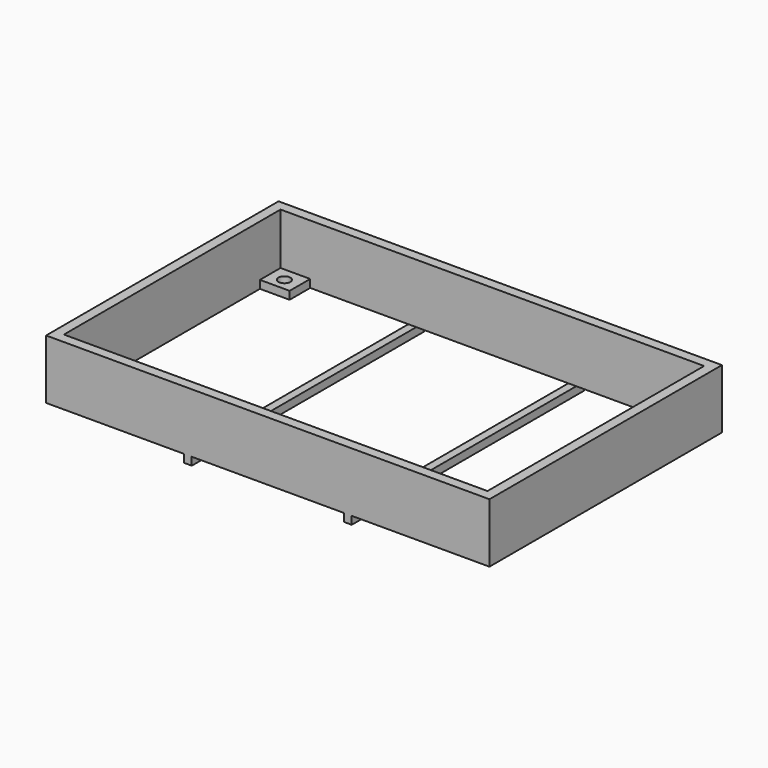
from build123d import *

# Parameters (mm, degrees)
SKETCH_W      = 112
SKETCH_H      = 73.4
SKETCH_W_2    = 107
SKETCH_H_2    = 68.4
PAD_DEPTH     = 15
SKETCH001_W   = 6.5
SKETCH001_H   = 6.5
SKETCH001_W_2 = 7.5
PAD001_DEPTH  = 2
SKETCH002_R   = 1.5
POCKET_DEPTH  = 2
SKETCH003_W   = 2
SKETCH003_H   = 73.4
PAD002_DEPTH  = 2


with BuildPart() as part:
    # Sketch → Pad (new body)
    with BuildSketch(Plane.XY):
        Rectangle(SKETCH_W, SKETCH_H)
        Rectangle(SKETCH_W_2, SKETCH_H_2, mode=Mode.SUBTRACT)
    extrude(amount=PAD_DEPTH)

    # Sketch001 (on Face9 of Pad) → Pad001 (join)
    with BuildSketch(Plane(origin=(0, 0, 0), x_dir=(1, 0, 0), z_dir=(0, 0, -1))):
        with Locations((-50.25, 30.95)):
            Rectangle(SKETCH001_W, SKETCH001_H)
        with Locations((-49.75, -30.95)):
            Rectangle(SKETCH001_W_2, SKETCH001_H)
        with Locations((50.25, 30.95)):
            Rectangle(SKETCH001_W, SKETCH001_H)
        with Locations((50.25, -30.95)):
            Rectangle(SKETCH001_W, SKETCH001_H)
    extrude(amount=-PAD001_DEPTH)

    # Sketch002 (on Face22 of Pad001) → Pocket (cut)
    with BuildSketch(Plane(origin=(0, 0, 0), x_dir=(1, 0, 0), z_dir=(0, 0, -1))):
        with Locations((-50.25, 30.75)):
            Circle(SKETCH002_R)
        with Locations((50.25, -30.75)):
            Circle(SKETCH002_R)
        with Locations((-49.75, -30.75)):
            Circle(SKETCH002_R)
        with Locations((50.25, 30.75)):
            Circle(SKETCH002_R)
    extrude(amount=-POCKET_DEPTH, mode=Mode.SUBTRACT)

    # Sketch003 (on Face9 of Pad) → Pad002 (join)
    with BuildSketch(Plane(origin=(0, 0, 0), x_dir=(1, 0, 0), z_dir=(0, 0, -1))):
        with Locations((-20.205, 0)):
            Rectangle(SKETCH003_W, SKETCH003_H)
        with Locations((20.205, 0)):
            Rectangle(SKETCH003_W, SKETCH003_H)
    extrude(amount=PAD002_DEPTH)


solid = part.part
